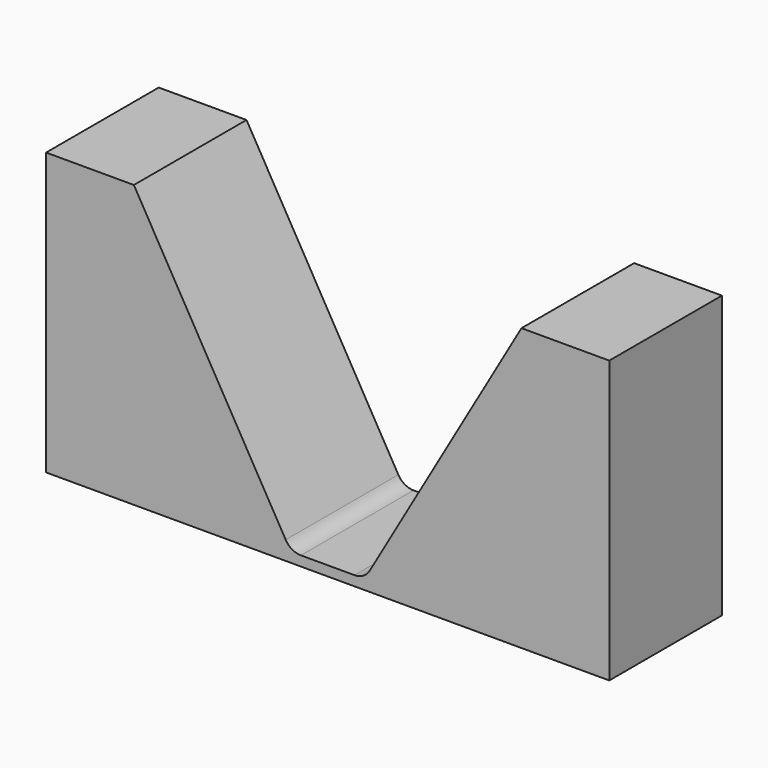
from build123d import *

# Parameters (mm, degrees)
F1_DEPTH = 25.4


with BuildPart() as f1:
    # F0 (on Front) → F1 (new body)
    with BuildSketch(Plane.XZ):
        with BuildLine():
            Line((-50.8, 0), (0, 0))
            Line((0, 0), (0, 1.778))
            Line((0, 1.778), (-4.826, 1.778))
            ThreePointArc((-4.826, 1.778), (-6.4135, 2.203369), (-7.575631, 3.3655))
            Line((-7.575631, 3.3655), (-34.961952, 50.8))
            Line((-34.961952, 50.8), (-50.8, 50.8))
            Line((-50.8, 50.8), (-50.8, 0))
        make_face()
    extrude(amount=F1_DEPTH)

    # F2: F1 across plane


with BuildPart() as f1_1:
    add(f1.part)
    add(f1.part.mirror(Plane.YZ))


solid = f1_1.part
